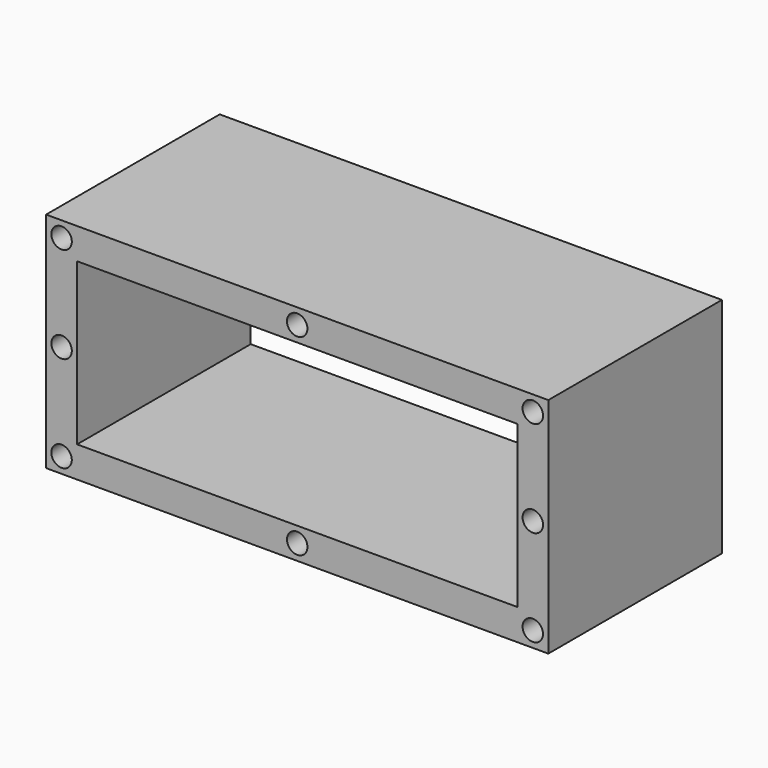
from build123d import *

# Parameters (mm, degrees)
F0_W     = 81
F0_H     = 36
F1_DEPTH = 35
F2_W     = 71
F2_H     = 26
F3_DEPTH = 35.001
F4_R     = 1.65
F5_DEPTH = 35.001


with BuildPart() as f1:
    # F0 (on Front) → F1 (new body)
    with BuildSketch(Plane.XZ):
        Rectangle(F0_W, F0_H)
    extrude(amount=F1_DEPTH)

    # F2 (on face) → F3 (cut, through all)
    with BuildSketch(Plane.XZ.offset(35)):
        Rectangle(F2_W, F2_H)
    extrude(amount=-F3_DEPTH, mode=Mode.SUBTRACT)

    # F4 (on face) → F5 (cut, through all)
    with BuildSketch(Plane.XZ.offset(35)):
        with Locations((0, 15.5)):
            Circle(F4_R)
        with Locations((38, 15.5)):
            Circle(F4_R)
        with Locations((38, 0)):
            Circle(F4_R)
        with Locations((38, -15.5)):
            Circle(F4_R)
        with Locations((0, -15.5)):
            Circle(F4_R)
        with Locations((-38, -15.5)):
            Circle(F4_R)
        with Locations((-38, 0)):
            Circle(F4_R)
        with Locations((-38, 15.5)):
            Circle(F4_R)
    extrude(amount=-F5_DEPTH, mode=Mode.SUBTRACT)


solid = f1.part
